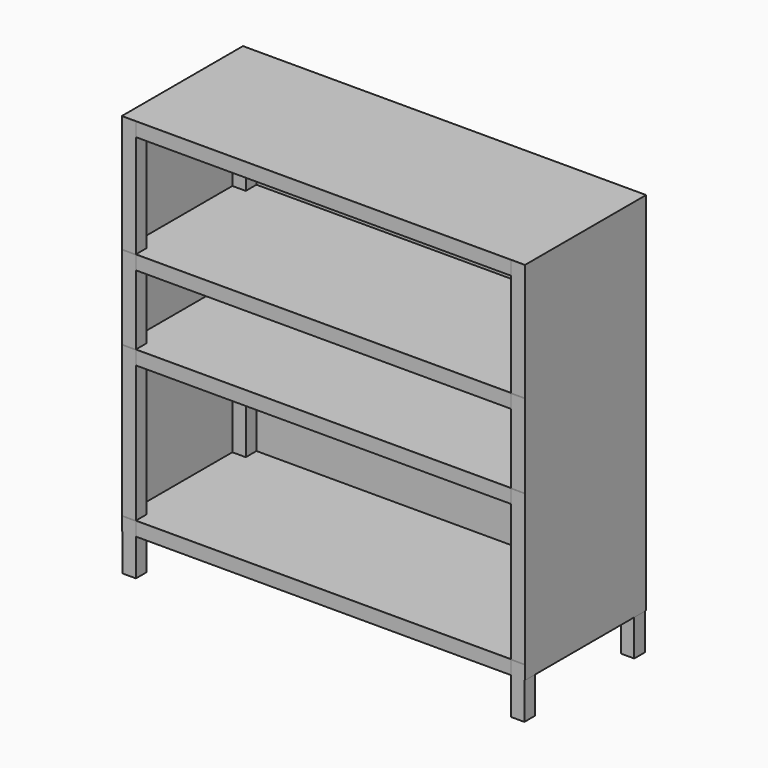
from build123d import *

# Parameters (mm, degrees)
F0_W      = 4
F0_H      = 4
F1_DEPTH  = 120
F2_W      = 112
F2_H      = 4
F3_DEPTH  = 4
F5_W      = 37
F5_H      = 4
F6_DEPTH  = 4
F8_W      = 120
F8_H      = 109
F9_DEPTH  = 0.2
F10_W     = 45.2
F10_H     = 109.2
F11_DEPTH = 0.2
F12_W     = 120.4
F12_H     = 45.2
F13_DEPTH = 0.2
F14_W     = 45.2
F14_H     = 109.2
F15_DEPTH = 0.2
F16_W     = 120
F16_H     = 45.2
F17_DEPTH = 0.2
F18_W     = 120
F18_H     = 45.2
F19_DEPTH = 0.2
F20_W     = 120
F20_H     = 45.2
F21_DEPTH = 0.2


with BuildPart() as f1:
    # F0 (on Top) → F1 (new body)
    with BuildSketch(Plane.XY):
        with Locations((-58, 20.5)):
            Rectangle(F0_W, F0_H)
        with Locations((58, 20.5)):
            Rectangle(F0_W, F0_H)
    extrude(amount=F1_DEPTH)


with BuildPart() as f3:
    # F2 (on face) → F3 (new body)
    with BuildSketch(Plane(origin=(0, 22.5, 0), x_dir=(-1, 0, 0), z_dir=(0, 1, 0))):
        with Locations((0, 118)):
            Rectangle(F2_W, F2_H)
        with Locations((0, 83)):
            Rectangle(F2_W, F2_H)
        with Locations((0, 58)):
            Rectangle(F2_W, F2_H)
        with Locations((0, 13)):
            Rectangle(F2_W, F2_H)
    extrude(amount=-F3_DEPTH)


with BuildPart() as f4_1:
    # F4: instance of F1
    add(f1.part.mirror(Plane.XZ))


with BuildPart() as f4_2:
    # F4: instance of F3
    add(f3.part.mirror(Plane.XZ))


with BuildPart() as f6:
    # F5 (on face) → F6 (new body)
    with BuildSketch(Plane.YZ.offset(60)):
        with Locations((0, 118)):
            Rectangle(F5_W, F5_H)
        with Locations((0, 83)):
            Rectangle(F5_W, F5_H)
        with Locations((0, 58)):
            Rectangle(F5_W, F5_H)
        with Locations((0, 13)):
            Rectangle(F5_W, F5_H)
    extrude(amount=-F6_DEPTH)


with BuildPart() as f7_1:
    # F7: instance of F6
    add(f6.part.mirror(Plane.YZ))


with BuildPart() as f9:
    # F8 (on face) → F9 (new body)
    with BuildSketch(Plane(origin=(0, 22.5, 0), x_dir=(-1, 0, 0), z_dir=(0, 1, 0))):
        with Locations((0, 65.5)):
            Rectangle(F8_W, F8_H)
    extrude(amount=F9_DEPTH)


with BuildPart() as f11:
    # F10 (on face) → F11 (new body)
    with BuildSketch(Plane(origin=(-60, 0, 0), x_dir=(0, -1, 0), z_dir=(-1, 0, 0))):
        with Locations((-0.1, 65.6)):
            Rectangle(F10_W, F10_H)
    extrude(amount=F11_DEPTH)


with BuildPart() as f13:
    # F12 (on face) → F13 (new body)
    with BuildSketch(Plane.XY.offset(120)):
        with Locations((0, 0.1)):
            Rectangle(F12_W, F12_H)
    extrude(amount=F13_DEPTH)


with BuildPart() as f15:
    # F14 (on face) → F15 (new body)
    with BuildSketch(Plane.YZ.offset(60)):
        with Locations((0.1, 65.6)):
            Rectangle(F14_W, F14_H)
    extrude(amount=F15_DEPTH)


with BuildPart() as f17:
    # F16 (on face) → F17 (new body)
    with BuildSketch(Plane.XY.offset(60)):
        with Locations((0, 0.1)):
            Rectangle(F16_W, F16_H)
    extrude(amount=F17_DEPTH)


with BuildPart() as f19:
    # F18 (on face) → F19 (new body)
    with BuildSketch(Plane.XY.offset(85)):
        with Locations((0, 0.1)):
            Rectangle(F18_W, F18_H)
    extrude(amount=F19_DEPTH)


with BuildPart() as f21:
    # F20 (on face) → F21 (new body)
    with BuildSketch(Plane.XY.offset(15)):
        with Locations((0, 0.1)):
            Rectangle(F20_W, F20_H)
    extrude(amount=F21_DEPTH)


solid = Compound([f1.part, f3.part, f4_1.part, f4_2.part, f6.part, f7_1.part, f9.part, f11.part, f13.part, f15.part, f17.part, f19.part, f21.part])
